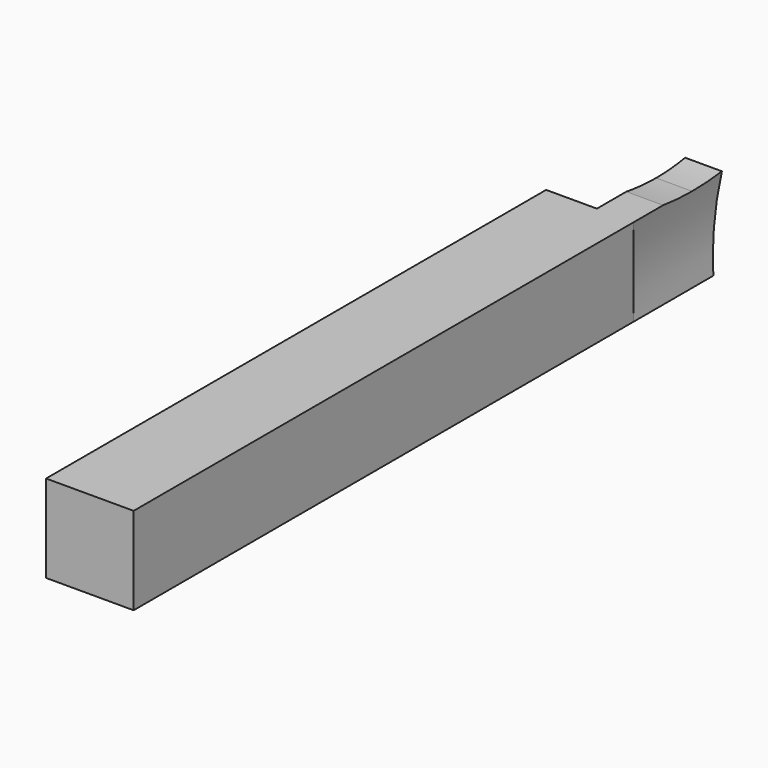
from build123d import *

# Parameters (mm, degrees)
F1_DEPTH = 12
F2_W     = 9.525
F2_H     = 9.525
F3_DEPTH = 68
F5_DEPTH = 57.25
F7_DEPTH = 57.25


with BuildPart() as f1:
    # F0 (on Front) → F1 (new body)
    with BuildSketch(Plane.XZ):
        with BuildLine():
            Line((-52.25, 0), (-56.25, 0))
            Line((-56.25, 0), (-55.3939646182, -6.0910082371))
            Line((-55.3939646182, -6.0910082371), (-53.4113485495, -9.525))
            Line((-53.4113485495, -9.525), (-52.25, -9.525))
            ThreePointArc((-52.25, -9.525), (-52.6092196059, -4.7625), (-52.25, 0))
        make_face()
    extrude(amount=F1_DEPTH)

    # F2 (on face) → F3 (join)
    with BuildSketch(Plane.XZ.offset(12)):
        with Locations((-57.0125, -4.7625)):
            Rectangle(F2_W, F2_H)
    extrude(amount=F3_DEPTH)

    # F4 (on Right) → F5 (cut, up to face)
    with BuildSketch(Plane.YZ):
        Polygon((0, -9.525), (0, 0), (-1.1695229426, -9.525), align=None)
    extrude(amount=-F5_DEPTH, mode=Mode.SUBTRACT)

    # F6 (on Right) → F7 (cut, up to face)
    with BuildSketch(Plane.YZ):
        with BuildLine():
            Line((-4, 0), (-8, 0))
            ThreePointArc((-8, 0), (-6.005617112, -0.2248948268), (-4, -0.3))
            Line((-4, -0.3), (-4, 0))
        make_face()
        with BuildLine():
            Line((0, 0), (-4, 0))
            Line((-4, 0), (-4, -0.3))
            ThreePointArc((-4, -0.3), (-1.994382888, -0.2248948268), (0, 0))
        make_face()
    extrude(amount=-F7_DEPTH, mode=Mode.SUBTRACT)


solid = f1.part
